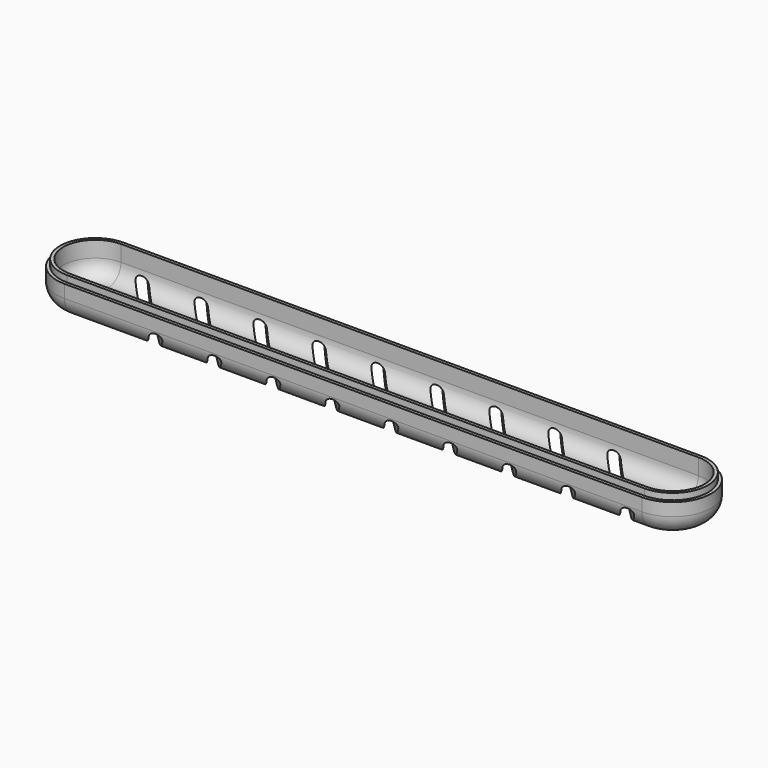
from build123d import *

# Parameters (mm, degrees)
PAD_DEPTH            = 12
POCKET_DEPTH         = 10
FILLET_R             = 5
FILLET001_R          = 6
SKETCH002_W          = 211.472893
SKETCH002_H          = 45.806395
POCKET001_DEPTH      = 2
POCKET002_DEPTH      = 80.611173
POCKET002_DEPTH_BACK = -80.611173


with BuildPart() as part:
    # Sketch → Pad (new body)
    with BuildSketch(Plane.XY):
        with BuildLine():
            Line((-90, 12), (89.999964, 12))
            ThreePointArc((90, -12), (102, 1.8e-05), (89.999964, 12))
            Line((-90, -12), (90, -12))
            ThreePointArc((-90, 12), (-102, 0), (-90, -12))
        make_face()
    extrude(amount=PAD_DEPTH)

    # Sketch001 (on Face6 of Pad) → Pocket (cut)
    with BuildSketch(Plane.XY.offset(12)):
        with BuildLine():
            Line((-90, 10), (90, 10))
            ThreePointArc((90, -10), (100, 0), (90, 10))
            Line((-90, -10), (90, -10))
            ThreePointArc((-90, 10), (-100, 0), (-90, -10))
        make_face()
    extrude(amount=-POCKET_DEPTH, mode=Mode.SUBTRACT)

    # Fillet
    fillet_edges = [part.edges().sort_by_distance(p)[0] for p in [
        (0, 10, 2),
    ]]
    fillet(fillet_edges, radius=FILLET_R)

    # Fillet001
    fillet001_edges = [part.edges().sort_by_distance(p)[0] for p in [
        (0, -12, 0),
    ]]
    fillet(fillet001_edges, radius=FILLET001_R)

    # Sketch002 (on Face4 of Fillet001) → Pocket001 (cut)
    with BuildSketch(Plane.XY.offset(12)):
        with Locations((-0.18729, 1.421787)):
            Rectangle(SKETCH002_W, SKETCH002_H)
        with BuildLine():
            Line((-90, 11), (90, 11))
            ThreePointArc((90, -11), (101, 0), (90, 11))
            Line((-90, -11), (90, -11))
            ThreePointArc((-90, 11), (-101, 0), (-90, -11))
        make_face(mode=Mode.SUBTRACT)
    extrude(amount=-POCKET001_DEPTH, mode=Mode.SUBTRACT)

    # Sketch003 (on DatumPlane) → Pocket002 (cut, two sides)
    with BuildSketch(Plane(origin=(0, 0, 0), x_dir=(0.707107, 0.707107, 0), z_dir=(0.707107, -0.707107, 0))) as pocket002_sk:
        with BuildLine():
            ThreePointArc((-50.5, 4), (-52, 5.5), (-53.5, 4))
            Line((-53.5, 4), (-53.5, -1))
            Line((-53.5, -1), (-50.5, -1))
            Line((-50.5, 4), (-50.5, -1))
        make_face()
        with BuildLine():
            Line((-40.5, -1), (-40.5, 4))
            ThreePointArc((-37.5, 4), (-39, 5.5), (-40.5, 4))
            Line((-37.5, -1), (-37.5, 4))
            Line((-40.5, -1), (-37.5, -1))
        make_face()
        with BuildLine():
            Line((-27.5, -1), (-27.5, 4))
            ThreePointArc((-24.5, 4), (-26, 5.5), (-27.5, 4))
            Line((-24.5, -1), (-24.5, 4))
            Line((-27.5, -1), (-24.5, -1))
        make_face()
        with BuildLine():
            Line((-14.5, 4), (-14.5, -1))
            Line((-14.5, -1), (-11.5, -1))
            Line((-11.5, -1), (-11.5, 4))
            ThreePointArc((-11.5, 4), (-13, 5.5), (-14.5, 4))
        make_face()
        with BuildLine():
            Line((-1.5, -1), (-1.5, 4))
            ThreePointArc((1.5, 4), (0, 5.5), (-1.5, 4))
            Line((1.5, -1), (1.5, 4))
            Line((-1.5, -1), (1.5, -1))
        make_face()
        with BuildLine():
            Line((11.5, -1), (11.5, 4))
            ThreePointArc((14.5, 4), (13, 5.5), (11.5, 4))
            Line((14.5, -1), (14.5, 4))
            Line((11.5, -1), (14.5, -1))
        make_face()
        with BuildLine():
            Line((24.5, 4), (24.5, -1))
            Line((24.5, -1), (27.5, -1))
            Line((27.5, -1), (27.5, 4))
            ThreePointArc((27.5, 4), (26, 5.5), (24.5, 4))
        make_face()
        with BuildLine():
            Line((37.5, 4), (37.5, -1))
            Line((37.5, -1), (40.5, -1))
            Line((40.5, -1), (40.5, 4))
            ThreePointArc((40.5, 4), (39, 5.5), (37.5, 4))
        make_face()
        with BuildLine():
            Line((50.5, 4), (50.5, -1))
            Line((50.5, -1), (53.5, -1))
            Line((53.5, -1), (53.5, 4))
            ThreePointArc((53.5, 4), (52, 5.5), (50.5, 4))
        make_face()
    extrude(amount=-POCKET002_DEPTH, mode=Mode.SUBTRACT)
    extrude(pocket002_sk.sketch, amount=-POCKET002_DEPTH_BACK, mode=Mode.SUBTRACT)


solid = part.part
